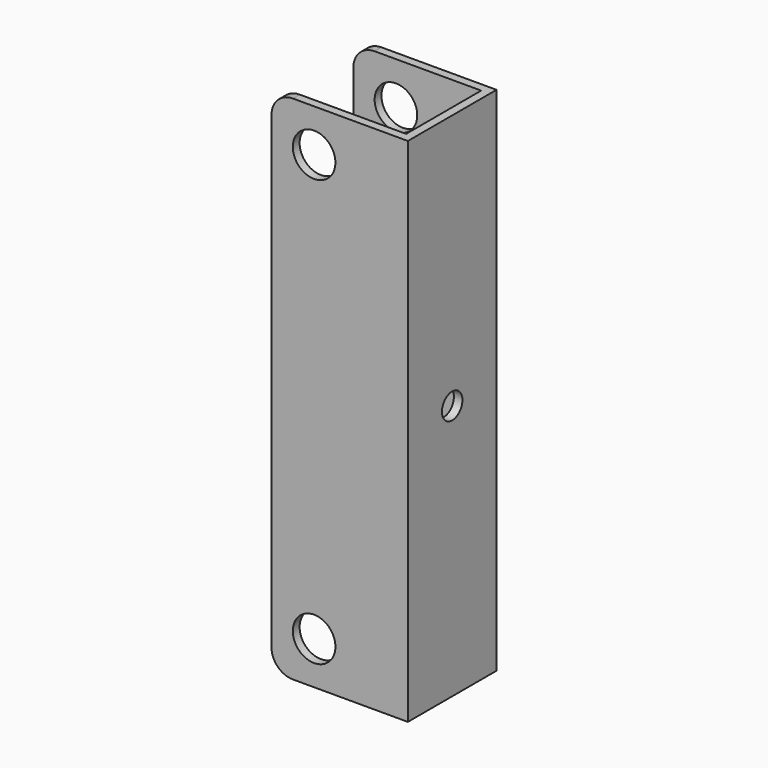
from build123d import *

# Parameters (mm, degrees)
F1_DEPTH = 120
F3_D     = 10
F5_D     = 6
F6_R     = 5


with BuildPart() as f1:
    # F0 (on Top) → F1 (new body)
    with BuildSketch(Plane.XY):
        Polygon((30, 0), (0, 0), (0, -2), (32, -2), (32, 24), (0, 24), (0, 22), (30, 22), align=None)
    extrude(amount=F1_DEPTH)

    # F3 (through all)
    with Locations(Plane.XZ.offset(2)):
        with Locations((10, 110), (10, 10)):
            Hole(F3_D / 2)

    # F5 (through all)
    with Locations(Plane.YZ.offset(32)):
        with Locations((11, 60)):
            Hole(F5_D / 2)

    # F6
    f6_edges = [f1.edges().sort_by_distance(p)[0] for p in [
        (0, -1, 120),
        (0, 23, 120),
        (0, 23, 0),
        (0, -1, 0),
    ]]
    fillet(f6_edges, radius=F6_R)


solid = f1.part
